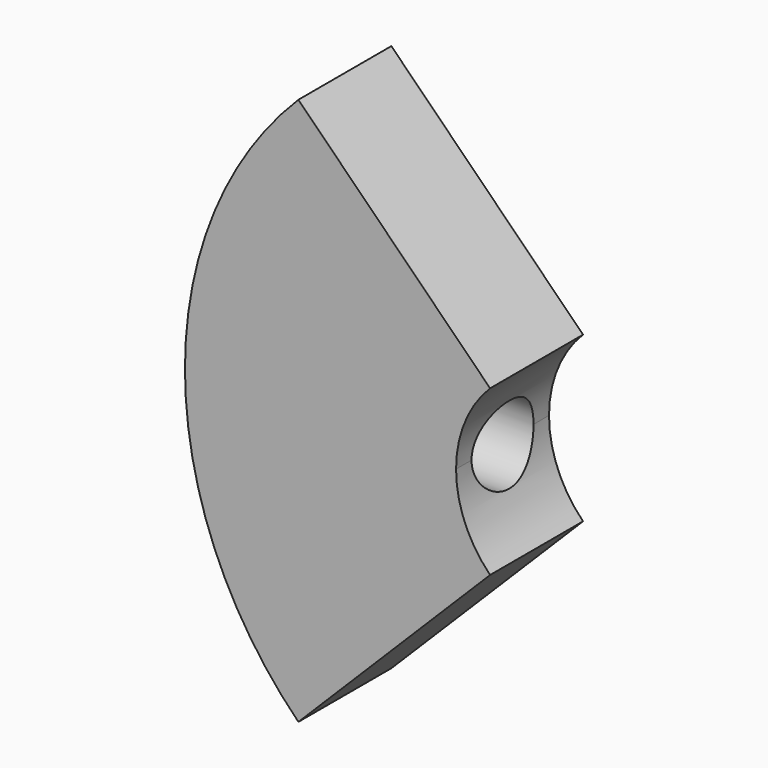
from build123d import *

# Parameters (mm, degrees)
F1_DEPTH = 15
F2_R     = 7.5
F3_DEPTH = 107.336067
F4_R     = 10
F5_DEPTH = 70


with BuildPart() as f1:
    # F0 (on Front) → F1 (new body, symmetric)
    with BuildSketch(Plane.XZ):
        with BuildLine():
            ThreePointArc((-30, 0), (-27.716386, 11.480503), (-21.213203, 21.213203))
            Line((-21.213203, 21.213203), (-70.710678, 70.710678))
            ThreePointArc((-70.710678, 70.710678), (-92.387953, 38.268343), (-100, 0))
            Line((-100, 0), (-30, 0))
        make_face()
        with BuildLine():
            ThreePointArc((-21.213203, -21.213203), (-27.716386, -11.480503), (-30, 0))
            Line((-30, 0), (-100, 0))
            ThreePointArc((-100, 0), (-92.387953, -38.268343), (-70.710678, -70.710678))
            Line((-70.710678, -70.710678), (-21.213203, -21.213203))
        make_face()
    extrude(amount=F1_DEPTH, both=True)

    # F2 (on Right) → F3 (cut)
    with BuildSketch(Plane.YZ):
        Circle(F2_R)
    extrude(amount=-F3_DEPTH, mode=Mode.SUBTRACT)

    # F4 (on Right) → F5 (cut)
    with BuildSketch(Plane.YZ):
        Circle(F4_R)
    extrude(amount=-F5_DEPTH, mode=Mode.SUBTRACT)


solid = f1.part
